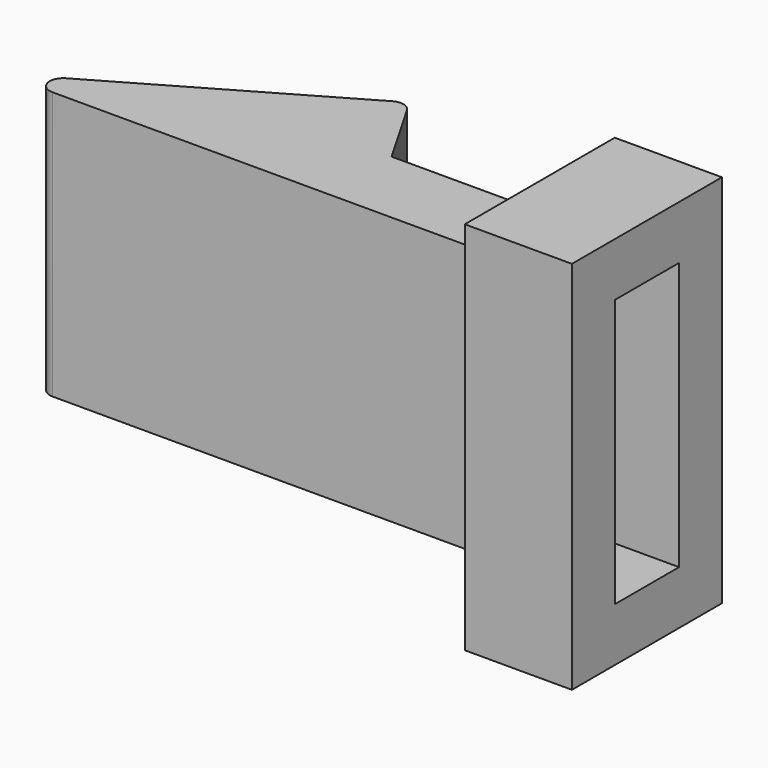
from build123d import *

# Parameters (mm, degrees)
F1_DEPTH      = 10
F3_W          = 3
F3_H          = 10
F4_DEPTH      = 9.464
F5_W          = 7
F5_H          = 14
F5_W_2        = 3
F5_H_2        = 10
F6_DEPTH      = 3
F6_DEPTH_BACK = 1
F7_R          = 0.5


with BuildPart() as f1:
    # F0 (on Top) → F1 (new body)
    with BuildSketch(Plane.XY):
        Polygon((-13.856406, 0), (0, 0), (-3.464102, 6), align=None)
    extrude(amount=F1_DEPTH)

    # F3 (on offset) → F4 (join)
    with BuildSketch(Plane.YZ.offset(-3.4643)):
        with Locations((1.5, 5)):
            Rectangle(F3_W, F3_H)
    extrude(amount=F4_DEPTH)

    # F5 (on face) → F6 (join, two sides)
    with BuildSketch(Plane.YZ.offset(5.9997)) as f6_sk:
        with Locations((1.5, 5)):
            Rectangle(F5_W, F5_H)
        with Locations((1.5, 5)):
            Rectangle(F5_W_2, F5_H_2, mode=Mode.SUBTRACT)
    extrude(amount=F6_DEPTH)
    extrude(f6_sk.sketch, amount=-F6_DEPTH_BACK)

    # F7
    f7_edges = [f1.edges().sort_by_distance(p)[0] for p in [
        (-13.856406, 0, 5),
        (-3.464102, 6, 5),
    ]]
    fillet(f7_edges, radius=F7_R)


solid = f1.part
